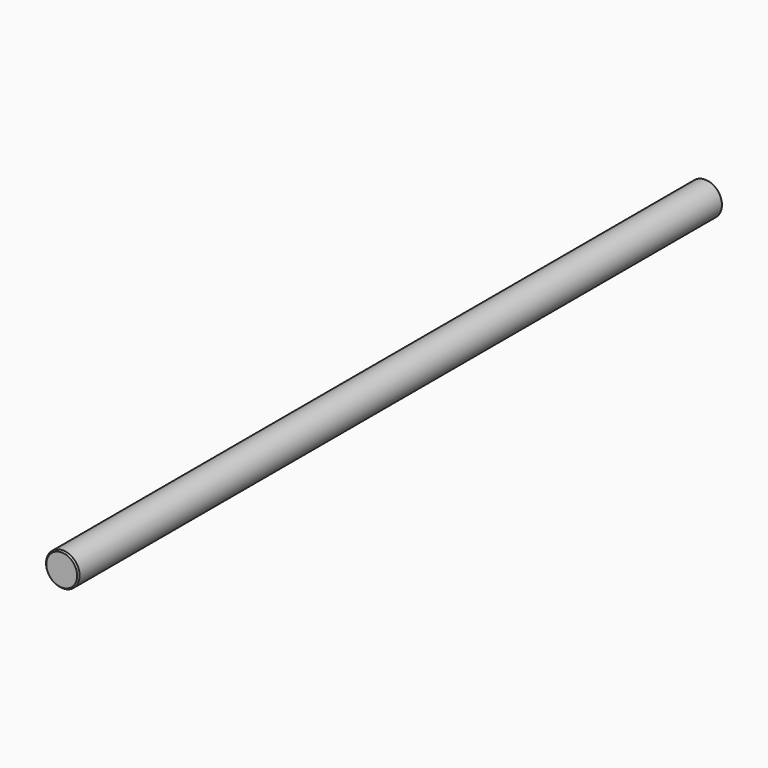
from build123d import *

# Parameters (mm, degrees)
F0_R     = 12.5
F1_DEPTH = 600
F2_SIZE  = 1
F3_SIZE  = 1


with BuildPart() as f1:
    # F0 (on Front) → F1 (new body)
    with BuildSketch(Plane.XZ):
        Circle(F0_R)
    extrude(amount=F1_DEPTH)

    # F2
    f2_edges = [f1.edges().sort_by_distance(p)[0] for p in [
        (-12.5, -600, 0),
    ]]
    chamfer(f2_edges, length=F2_SIZE)

    # F3
    f3_edges = [f1.edges().sort_by_distance(p)[0] for p in [
        (-12.5, 0, 0),
    ]]
    chamfer(f3_edges, length=F3_SIZE)


solid = f1.part
